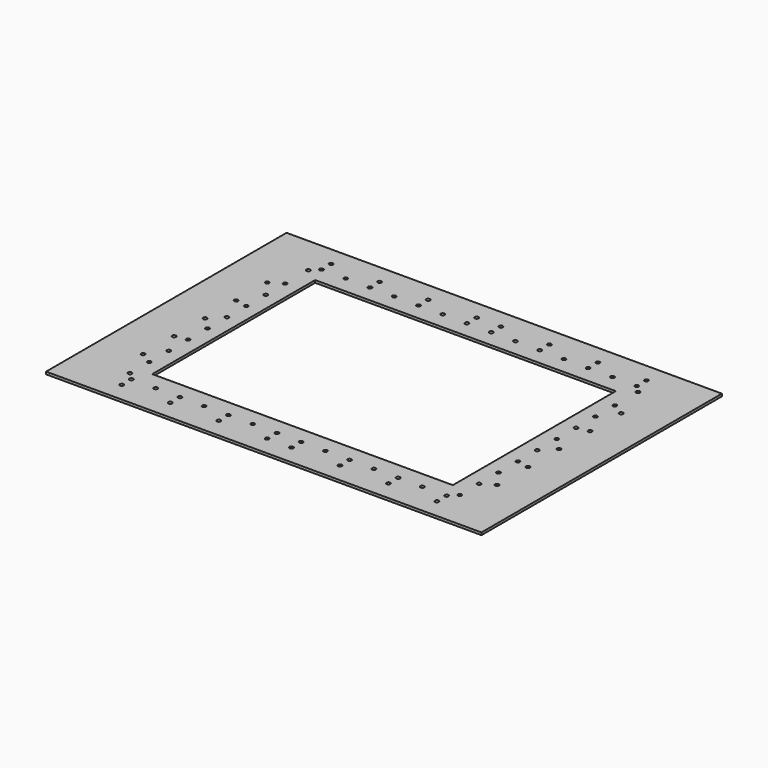
from build123d import *

# Parameters (mm, degrees)
F0_W     = 138.9888
F0_H     = 419.989
F1_DEPTH = 5.08
F3_D     = 7.874


with BuildPart() as f1:
    # F0 (on Top) → F1 (new body)
    with BuildSketch(Plane.XY):
        with Locations((69.4944, 309.9943)):
            Rectangle(F0_W, F0_H)
        Polygon((0, 619.9886), (0, 519.9888), (138.9888, 519.9888), (759.0028, 519.9888), (897.9916, 519.9888), (897.9916, 619.9886), align=None)
        with Locations((828.4972, 309.9943)):
            Rectangle(F0_W, F0_H)
        Polygon((0, 99.9998), (0, 0), (897.9916, 0), (897.9916, 99.9998), (759.0028, 99.9998), (138.9888, 99.9998), align=None)
    extrude(amount=F1_DEPTH)

    # F3 (through all)
    with Locations(Plane.XY.offset(5.08)):
        with Locations((108.9914, 539.9786), (124.0028, 554.99), (174.0154, 554.99), (124.0028, 579.9836), (224.028, 579.9836), (224.028, 554.99), (274.0406, 554.99), (324.0532, 579.9836), (324.0532, 554.99), (374.0658, 554.99), (424.0784, 579.9836), (424.0784, 554.99), (474.091, 579.9836), (474.091, 554.99), (524.1036, 554.99), (574.1162, 579.9836), (574.1162, 554.99), (624.1288, 554.99), (674.1414, 579.9836), (674.1414, 554.99), (789.0002, 539.9786), (774.1666, 579.9836), (774.1666, 554.99), (724.154, 554.99), (789.0002, 480.1108), (813.9938, 465.074), (789.0002, 130.0226), (813.9938, 145.034), (789.0002, 180.0352), (789.0002, 230.0478), (813.9938, 225.044), (789.0002, 280.0604), (813.9938, 305.054), (789.0002, 330.073), (789.0002, 380.0856), (813.9938, 385.064), (789.0002, 430.0982), (789.0002, 80.01), (774.1666, 64.9986), (774.1666, 40.005), (724.154, 64.9986), (674.1414, 64.9986), (674.1414, 40.005), (83.9978, 465.074), (108.9914, 480.1108), (108.9914, 430.0982), (83.9978, 385.064), (108.9914, 380.0856), (108.9914, 330.073), (83.9978, 305.054), (108.9914, 280.0604), (83.9978, 225.044), (108.9914, 230.0478), (108.9914, 180.0352), (83.9978, 145.034), (108.9914, 130.0226), (108.9914, 80.01), (124.0028, 64.9986), (124.0028, 40.005), (174.0154, 64.9986), (224.028, 40.005), (224.028, 64.9986), (274.0406, 64.9986), (324.0532, 40.005), (324.0532, 64.9986), (374.0658, 64.9986), (424.0784, 64.9986), (424.0784, 40.005), (474.091, 64.9986), (474.091, 40.005), (524.1036, 64.9986), (574.1162, 64.9986), (624.1288, 64.9986), (574.1162, 40.005)):
            Hole(F3_D / 2)


solid = f1.part
